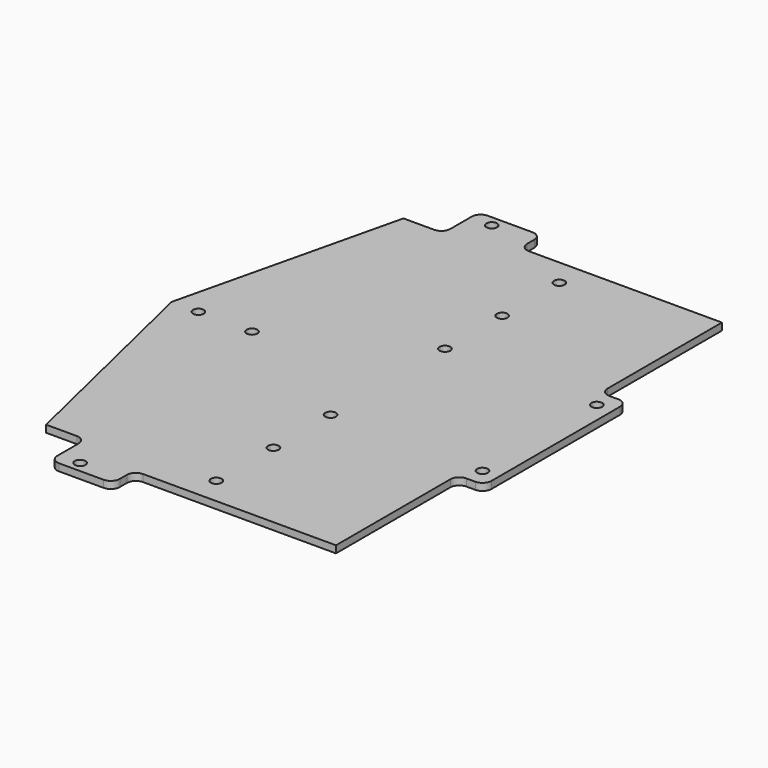
from build123d import *

# Parameters (mm, degrees)
F0_W      = 320
F0_H      = 420
F1_DEPTH  = 4
F3_DEPTH  = 4
F4_R      = 3
F5_DEPTH  = 25
F6_R      = 3
F7_DEPTH  = 25
F8_R      = 3
F9_DEPTH  = 25
F11_DEPTH = 25
F13_DEPTH = 25


with BuildPart() as f1:
    # F0 (on Top) → F1 (new body)
    with BuildSketch(Plane.XY):
        with Locations((160, 210)):
            Rectangle(F0_W, F0_H)
    extrude(amount=F1_DEPTH)

    # F2 (on face) → F3 (cut, through all)
    with BuildSketch(Plane.XY.offset(4)):
        Polygon((320, 420), (290, 420), (320, 360), align=None)
        Polygon((320, 60), (290, 0), (320, 0), align=None)
        with BuildLine():
            Line((113, 360), (213, 360))
            ThreePointArc((213, 360), (216.535534, 361.464466), (218, 365))
            Line((218, 365), (218, 403))
            ThreePointArc((218, 403), (216.535534, 406.535534), (213, 408))
            Line((213, 408), (113, 408))
            ThreePointArc((113, 408), (109.464466, 406.535534), (108, 403))
            Line((108, 403), (108, 365))
            ThreePointArc((108, 365), (109.464466, 361.464466), (113, 360))
        make_face()
        with BuildLine():
            Line((113, 12), (213, 12))
            ThreePointArc((213, 12), (216.535534, 13.464466), (218, 17))
            Line((218, 17), (218, 55))
            ThreePointArc((218, 55), (216.535534, 58.535534), (213, 60))
            Line((213, 60), (113, 60))
            ThreePointArc((113, 60), (109.464466, 58.535534), (108, 55))
            Line((108, 55), (108, 17))
            ThreePointArc((108, 17), (109.464466, 13.464466), (113, 12))
        make_face()
        Polygon((0, 420), (0, 210), (50, 420), align=None)
        Polygon((50, 0), (0, 210), (0, 0), align=None)
    extrude(amount=-F3_DEPTH, mode=Mode.SUBTRACT)

    # F4 (on face) → F5 (cut)
    with BuildSketch(Plane.XY.offset(4)):
        with Locations((67, 6)):
            Circle(F4_R)
        with Locations((97, 6)):
            Circle(F4_R)
        with Locations((127, 6)):
            Circle(F4_R)
        with Locations((157, 6)):
            Circle(F4_R)
        with Locations((187, 6)):
            Circle(F4_R)
        with Locations((217, 6)):
            Circle(F4_R)
        with Locations((247, 6)):
            Circle(F4_R)
        with Locations((277, 6)):
            Circle(F4_R)
        with Locations((64, 66)):
            Circle(F4_R)
        with Locations((94, 66)):
            Circle(F4_R)
        with Locations((124, 66)):
            Circle(F4_R)
        with Locations((220, 66)):
            Circle(F4_R)
        with Locations((250, 66)):
            Circle(F4_R)
        with Locations((280, 66)):
            Circle(F4_R)
        with Locations((310, 66)):
            Circle(F4_R)
        with Locations((67, 414)):
            Circle(F4_R)
        with Locations((64, 354)):
            Circle(F4_R)
        with Locations((97, 414)):
            Circle(F4_R)
        with Locations((310, 354)):
            Circle(F4_R)
        with Locations((277, 414)):
            Circle(F4_R)
        with Locations((94, 354)):
            Circle(F4_R)
        with Locations((220, 354)):
            Circle(F4_R)
        with Locations((280, 354)):
            Circle(F4_R)
        with Locations((124, 354)):
            Circle(F4_R)
        with Locations((127, 414)):
            Circle(F4_R)
        with Locations((250, 354)):
            Circle(F4_R)
        with Locations((157, 414)):
            Circle(F4_R)
        with Locations((187, 414)):
            Circle(F4_R)
        with Locations((217, 414)):
            Circle(F4_R)
        with Locations((247, 414)):
            Circle(F4_R)
    extrude(amount=-F5_DEPTH, mode=Mode.SUBTRACT)

    # F6 (on face) → F7 (cut)
    with BuildSketch(Plane.XY.offset(4)):
        with Locations((121, 90)):
            Circle(F6_R)
        with Locations((121, 130)):
            Circle(F6_R)
        with Locations((121, 170)):
            Circle(F6_R)
        with Locations((206, 90)):
            Circle(F6_R)
        with Locations((206, 130)):
            Circle(F6_R)
        with Locations((206, 170)):
            Circle(F6_R)
        with Locations((291, 80)):
            Circle(F6_R)
        with Locations((291, 120)):
            Circle(F6_R)
        with Locations((291, 160)):
            Circle(F6_R)
        with Locations((121, 330)):
            Circle(F6_R)
        with Locations((121, 290)):
            Circle(F6_R)
        with Locations((206, 330)):
            Circle(F6_R)
        with Locations((206, 250)):
            Circle(F6_R)
        with Locations((291, 340)):
            Circle(F6_R)
        with Locations((121, 250)):
            Circle(F6_R)
        with Locations((206, 290)):
            Circle(F6_R)
        with Locations((291, 300)):
            Circle(F6_R)
        with Locations((291, 260)):
            Circle(F6_R)
    extrude(amount=-F7_DEPTH, mode=Mode.SUBTRACT)

    # F8 (on face) → F9 (cut)
    with BuildSketch(Plane.XY.offset(4)):
        with Locations((15, 210)):
            Circle(F8_R)
        with Locations((45, 210)):
            Circle(F8_R)
    extrude(amount=-F9_DEPTH, mode=Mode.SUBTRACT)

    # F10 (on face) → F11 (intersect)
    with BuildSketch(Plane.XY.offset(4)):
        with BuildLine():
            Line((87, 350), (87, 355))
            ThreePointArc((87, 355), (85.535534, 358.535534), (82, 360))
            Line((82, 360), (57, 360))
            ThreePointArc((57, 360), (53.464466, 358.535534), (52, 355))
            Line((52, 355), (52, 340))
            ThreePointArc((52, 340), (50.535534, 336.464466), (47, 335))
            Line((47, 335), (0, 335))
            Line((0, 335), (0, 210))
            Line((0, 210), (0, 85))
            Line((0, 85), (47, 85))
            ThreePointArc((47, 85), (50.535534, 83.535534), (52, 80))
            Line((52, 80), (52, 65))
            ThreePointArc((52, 65), (53.464466, 61.464466), (57, 60))
            Line((57, 60), (82, 60))
            ThreePointArc((82, 60), (85.535534, 61.464466), (87, 65))
            Line((87, 65), (87, 70))
            ThreePointArc((87, 70), (88.464466, 73.535534), (92, 75))
            Line((92, 75), (275, 75))
            ThreePointArc((275, 75), (278.535534, 76.464466), (280, 80))
            Line((280, 80), (280, 82))
            ThreePointArc((280, 82), (281.464466, 85.535534), (285, 87))
            Line((285, 87), (320, 87))
            Line((320, 87), (320, 210))
            Line((320, 210), (320, 333))
            Line((320, 333), (285, 333))
            ThreePointArc((285, 333), (281.464466, 334.464466), (280, 338))
            Line((280, 338), (280, 340))
            ThreePointArc((280, 340), (278.535534, 343.535534), (275, 345))
            Line((275, 345), (92, 345))
            ThreePointArc((92, 345), (88.464466, 346.464466), (87, 350))
        make_face()
    extrude(amount=-F11_DEPTH, mode=Mode.INTERSECT)

    # F12 (on face) → F13 (cut)
    with BuildSketch(Plane.XY.offset(4)):
        with BuildLine():
            Line((320, 75), (320, 345))
            Line((320, 345), (200, 345))
            Line((200, 345), (200, 265))
            ThreePointArc((200, 265), (201.464466, 261.464466), (205, 260))
            Line((205, 260), (210, 260))
            ThreePointArc((210, 260), (213.535534, 258.535534), (215, 255))
            Line((215, 255), (215, 165))
            ThreePointArc((215, 165), (213.535534, 161.464466), (210, 160))
            Line((210, 160), (205, 160))
            ThreePointArc((205, 160), (201.464466, 158.535534), (200, 155))
            Line((200, 155), (200, 75))
            Line((200, 75), (320, 75))
        make_face()
    extrude(amount=-F13_DEPTH, mode=Mode.SUBTRACT)


solid = f1.part
